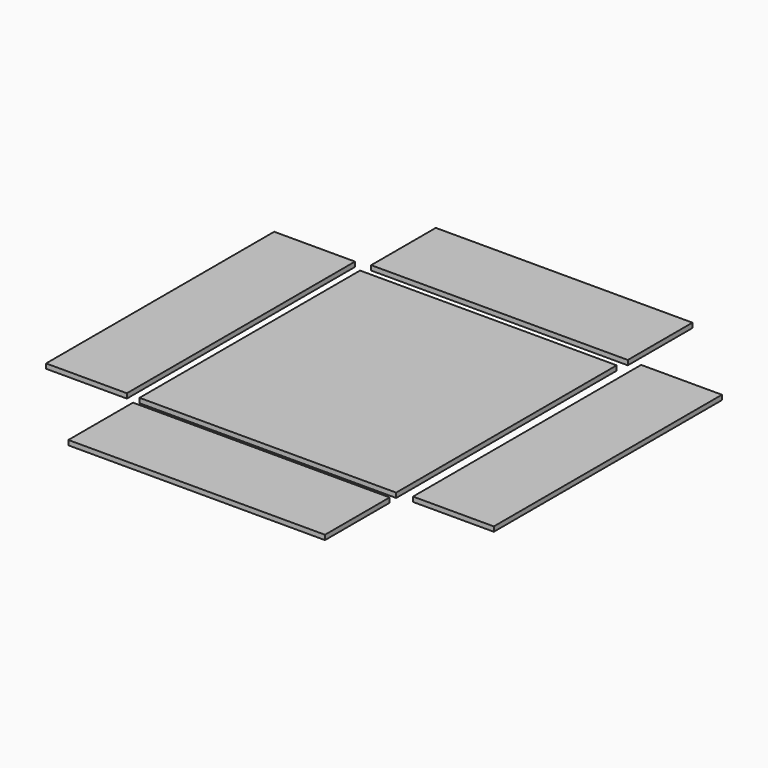
from build123d import *

# Parameters (mm, degrees)
F0_W     = 342.9
F0_H     = 368.3
F1_DEPTH = 6.35
F0_W_2   = 107.95
F0_H_2   = 381
F0_H_3   = 107.95
F2_DEPTH = 6.35


with BuildPart() as f1:
    # F0 (on Top) → F1 (new body)
    with BuildSketch(Plane.XY):
        with Locations((12.555983, 41.096156)):
            Rectangle(F0_W, F0_H)
    extrude(amount=F1_DEPTH)


with BuildPart() as f2:
    # F0 (on Top) → F2 (new body)
    with BuildSketch(Plane.XY):
        with Locations((257.29443, 51.468691)):
            Rectangle(F0_W_2, F0_H_2)
        with Locations((14.049705, -209.812836)):
            Rectangle(F0_W, F0_H_3)
        with Locations((-229.62387, 47.258669)):
            Rectangle(F0_W_2, F0_H_2)
        with Locations((14.049705, 295.943691)):
            Rectangle(F0_W, F0_H_3)
    extrude(amount=F2_DEPTH)


solid = Compound([f1.part, f2.part])
